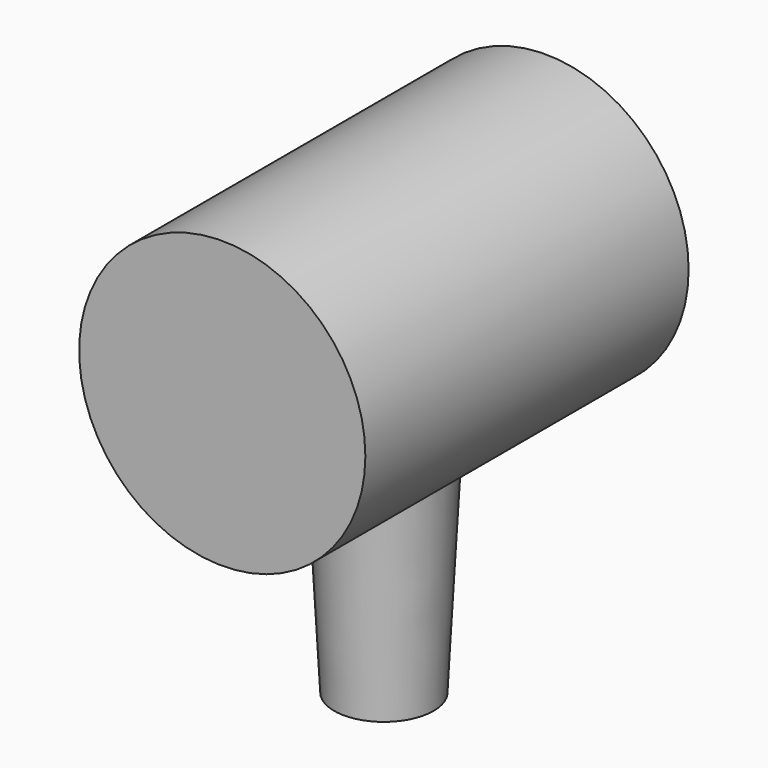
from build123d import *

# Parameters (mm, degrees)
F0_R     = 42.5
F1_DEPTH = 60
F2_R     = 20
F3_DEPTH = 100
F3_TAPER = 3
F4_W     = 15
F4_H     = 15
F5_DEPTH = 50
F6_R     = 5
F7_DEPTH = 50


with BuildPart() as f1:
    # F0 (on Front) → F1 (new body, symmetric)
    with BuildSketch(Plane.XZ):
        Circle(F0_R)
    extrude(amount=F1_DEPTH, both=True)

    # F2 (on Top) → F3 (join)
    with BuildSketch(Plane.XY):
        Circle(F2_R)
    extrude(amount=-F3_DEPTH, taper=F3_TAPER)

    # F4 (on face) → F5 (cut)
    with BuildSketch(Plane(origin=(0, 0, -100), x_dir=(1, 0, 0), z_dir=(0, 0, -1))):
        Rectangle(F4_W, F4_H)
    extrude(amount=-F5_DEPTH, mode=Mode.SUBTRACT)

    # F6 (on Right) → F7 (cut)
    with BuildSketch(Plane.YZ):
        with Locations((0, -85)):
            Circle(F6_R)
    extrude(amount=-F7_DEPTH, mode=Mode.SUBTRACT)


solid = f1.part
